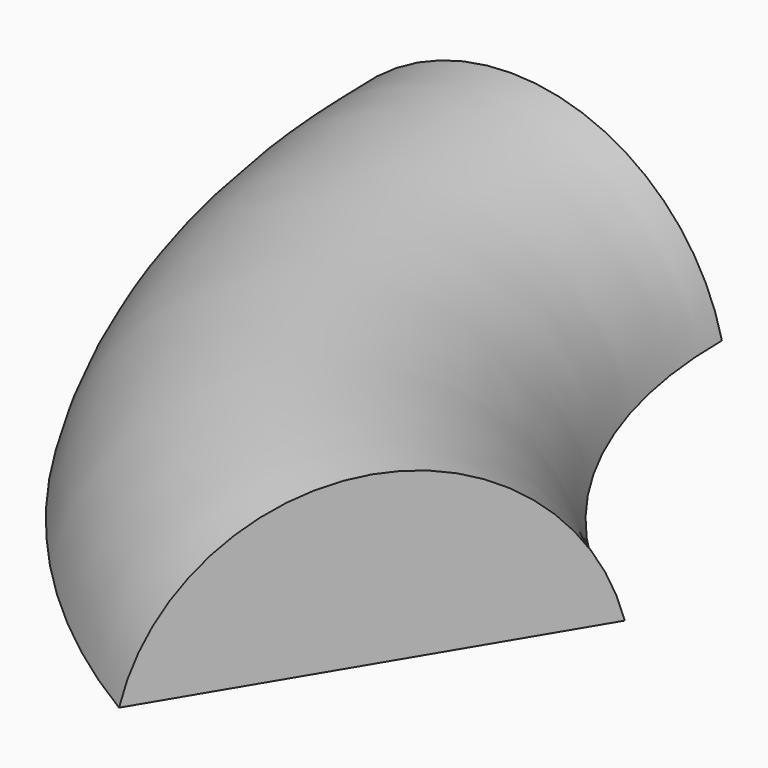
from build123d import *


with BuildPart() as f2:
    # F2: sweep along a path in F1
    with BuildLine(Plane.XY) as f2_path:
        ThreePointArc((0, 0), (15.435326, -58.510955), (57.724183, -101.794136))
    # F0 (on Front) → F2 (sweep)
    with BuildSketch(Plane.XZ):
        with BuildLine():
            ThreePointArc((35.027422, 0), (-1.198305, 28.724772), (-37.424032, 0))
            Line((-37.424032, 0), (35.027422, 0))
        make_face()
    sweep(path=f2_path.line)


solid = f2.part
